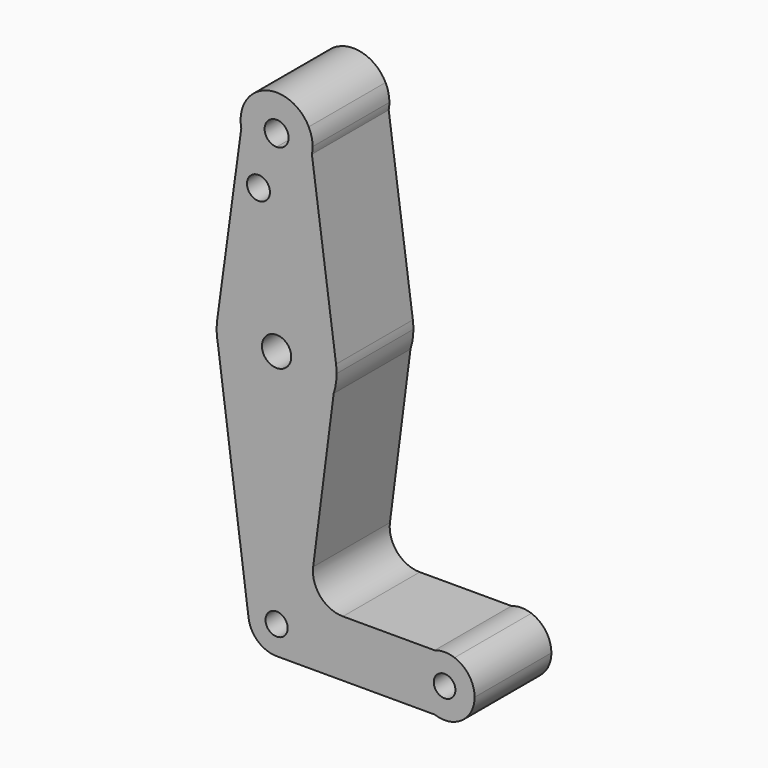
from build123d import *

# Parameters (mm, degrees)
F0_R     = 3.0424971204
F0_R_2   = 2.9292036199
F1_DEPTH = 25.4
F2_DEPTH = 25.4


with BuildPart() as f1:
    # F0 (on Front) → F1 (new body)
    with BuildSketch(Plane.XZ):
        with BuildLine():
            ThreePointArc((-9.3441255469, 112.4525848425), (-6.0468585077, 106.9405756212), (0, 104.775))
            ThreePointArc((0, 104.775), (6.0468585077, 106.9405756212), (9.3441255469, 112.4525848425))
            Line((9.3441255469, 112.4525848425), (8.5078797675, 118.5827102238))
            ThreePointArc((8.5078797675, 118.5827102238), (0, 123.825), (-8.5078797675, 118.5827102238))
            Line((-8.5078797675, 118.5827102238), (-9.3441255469, 112.4525848425))
        make_face()
        with BuildLine():
            ThreePointArc((3.175, 114.3), (2.2450640303, 112.0549359697), (0, 111.125))
            ThreePointArc((0, 111.125), (-2.2450640303, 116.5450640303), (3.175, 114.3))
        make_face(mode=Mode.SUBTRACT)
        with BuildLine():
            ThreePointArc((9.3441255469, 112.4525848425), (6.0468585077, 106.9405756212), (0, 104.775))
            Line((0, 104.775), (0, 79.375))
            ThreePointArc((0, 79.375), (10.4391619832, 75.4599131304), (15.7293191148, 65.6457271922))
            Line((15.7293191148, 65.6457271922), (9.3441255469, 112.4525848425))
        make_face()
        with BuildLine():
            Line((0, 79.375), (0, 104.775))
            ThreePointArc((0, 104.775), (-6.0468585077, 106.9405756212), (-9.3441255469, 112.4525848425))
            Line((-9.3441255469, 112.4525848425), (-15.7293191148, 65.6457271922))
            ThreePointArc((-15.7293191148, 65.6457271922), (-10.4391619832, 75.4599131304), (0, 79.375))
        make_face()
        with Locations((-4.8008062877, 100.0252)):
            Circle(F0_R, mode=Mode.SUBTRACT)
        with BuildLine():
            ThreePointArc((15.7293191148, 65.6457271922), (10.4391619832, 75.4599131304), (0, 79.375))
            Line((0, 79.375), (0, 67.372643786))
            ThreePointArc((0, 67.372643786), (2.7383726822, 66.2383726822), (3.872643786, 63.5))
            ThreePointArc((3.872643786, 63.5), (2.7383726822, 60.7616273178), (0, 59.627356214))
            Line((0, 59.627356214), (0, 47.625))
            ThreePointArc((0, 47.625), (9.3418966112, 50.664712987), (15.1062581732, 58.619775722))
            ThreePointArc((15.1062581732, 58.619775722), (15.6816369283, 61.0297999575), (15.875, 63.5))
            ThreePointArc((15.875, 63.5), (15.8385379052, 64.5753334487), (15.7293191148, 65.6457271922))
        make_face()
        with BuildLine():
            Line((0, 67.372643786), (0, 79.375))
            ThreePointArc((0, 79.375), (-10.4391619832, 75.4599131304), (-15.7293191148, 65.6457271922))
            ThreePointArc((-15.7293191148, 65.6457271922), (-15.8655379037, 62.9519744291), (-15.5437709654, 60.2740413558))
            ThreePointArc((-15.5437709654, 60.2740413558), (-10.0200681516, 51.1868420282), (0, 47.625))
            Line((0, 47.625), (0, 59.627356214))
            ThreePointArc((0, 59.627356214), (-3.872643786, 63.5), (0, 67.372643786))
        make_face()
        with BuildLine():
            ThreePointArc((-8.5078797675, 118.5827102238), (-9.4375914689, 115.5874363153), (-9.3441255469, 112.4525848425))
            Line((-9.3441255469, 112.4525848425), (-8.5078797675, 118.5827102238))
        make_face()
        with BuildLine():
            Line((8.5078797675, 118.5827102238), (9.3441255469, 112.4525848425))
            ThreePointArc((9.3441255469, 112.4525848425), (9.4796735396, 113.3718757718), (9.525, 114.3))
            ThreePointArc((9.525, 114.3), (9.2672320513, 116.5009168788), (8.5078797675, 118.5827102238))
        make_face()
        with BuildLine():
            ThreePointArc((0, 47.625), (-10.0200681516, 51.1868420282), (-15.5437709654, 60.2740413558))
            Line((-15.5437709654, 60.2740413558), (-7.420620187, -0.9840145232))
            ThreePointArc((-7.420620187, -0.9840145232), (-5.6302667211, 4.9329489345), (0, 7.4855787045))
            Line((0, 7.4855787045), (0, 47.625))
        make_face()
        with BuildLine():
            ThreePointArc((15.1062581732, 58.619775722), (9.3418966112, 50.664712987), (0, 47.625))
            Line((0, 47.625), (0, 7.4855787045))
            ThreePointArc((0, 7.4855787045), (5.2931034631, 5.2931034631), (7.4855787045, 0))
            Line((7.4855787045, 0), (36.5125, 0))
            ThreePointArc((36.5125, 0), (37.9708204922, 4.5852087364), (41.8099208897, 7.4855787045))
            Line((41.8099208897, 7.4855787045), (17.5539337581, 7.4855787045))
            ThreePointArc((17.5539337581, 7.4855787045), (11.5836409382, 10.1858945453), (9.6690137055, 16.4524968587))
            Line((9.6690137055, 16.4524968587), (15.1062581732, 58.619775722))
        make_face()
        with BuildLine():
            ThreePointArc((0, 7.4855787045), (-5.6302667211, 4.9329489345), (-7.420620187, -0.9840145232))
            ThreePointArc((-7.420620187, -0.9840145232), (-4.9329489345, -5.6302667211), (0, -7.4855787045))
            ThreePointArc((0, -7.4855787045), (5.2931034631, -5.2931034631), (7.4855787045, 0))
            ThreePointArc((7.4855787045, 0), (5.2931034631, 5.2931034631), (0, 7.4855787045))
        make_face()
        Circle(F0_R_2, mode=Mode.SUBTRACT)
        with BuildLine():
            ThreePointArc((7.4855787045, 0), (5.2931034631, -5.2931034631), (0, -7.4855787045))
            Line((0, -7.4855787045), (41.8099208897, -7.4855787045))
            ThreePointArc((41.8099208897, -7.4855787045), (37.9708204922, -4.5852087364), (36.5125, 0))
            Line((36.5125, 0), (7.4855787045, 0))
        make_face()
        with BuildLine():
            Line((47.0900791103, -7.4855787045), (41.8099208897, -7.4855787045))
            ThreePointArc((41.8099208897, -7.4855787045), (44.45, -7.9375), (47.0900791103, -7.4855787045))
        make_face()
        with BuildLine():
            ThreePointArc((36.5125, 0), (37.9708204922, -4.5852087364), (41.8099208897, -7.4855787045))
            Line((41.8099208897, -7.4855787045), (47.0900791103, -7.4855787045))
            ThreePointArc((47.0900791103, -7.4855787045), (50.9291795078, -4.5852087364), (52.3875, 0))
            ThreePointArc((52.3875, 0), (50.9291795078, 4.5852087364), (47.0900791103, 7.4855787045))
            Line((47.0900791103, 7.4855787045), (41.8099208897, 7.4855787045))
            ThreePointArc((41.8099208897, 7.4855787045), (37.9708204922, 4.5852087364), (36.5125, 0))
        make_face()
        with BuildLine():
            ThreePointArc((47.3139235661, 0), (44.45, -2.8639235661), (41.5860764339, 0))
            ThreePointArc((41.5860764339, 0), (44.45, 2.8639235661), (47.3139235661, 0))
        make_face(mode=Mode.SUBTRACT)
        with BuildLine():
            ThreePointArc((47.0900791103, 7.4855787045), (44.45, 7.9375), (41.8099208897, 7.4855787045))
            Line((41.8099208897, 7.4855787045), (47.0900791103, 7.4855787045))
        make_face()
    extrude(amount=F1_DEPTH)

    # F0 (on Front) → F2 (join)
    with BuildSketch(Plane.XZ):
        with BuildLine():
            ThreePointArc((-9.3441255469, 112.4525848425), (-6.0468585077, 106.9405756212), (0, 104.775))
            ThreePointArc((0, 104.775), (6.0468585077, 106.9405756212), (9.3441255469, 112.4525848425))
            Line((9.3441255469, 112.4525848425), (8.5078797675, 118.5827102238))
            ThreePointArc((8.5078797675, 118.5827102238), (0, 123.825), (-8.5078797675, 118.5827102238))
            Line((-8.5078797675, 118.5827102238), (-9.3441255469, 112.4525848425))
        make_face()
        with BuildLine():
            ThreePointArc((3.175, 114.3), (2.2450640303, 112.0549359697), (0, 111.125))
            ThreePointArc((0, 111.125), (-2.2450640303, 116.5450640303), (3.175, 114.3))
        make_face(mode=Mode.SUBTRACT)
        with BuildLine():
            ThreePointArc((9.3441255469, 112.4525848425), (6.0468585077, 106.9405756212), (0, 104.775))
            Line((0, 104.775), (0, 79.375))
            ThreePointArc((0, 79.375), (10.4391619832, 75.4599131304), (15.7293191148, 65.6457271922))
            Line((15.7293191148, 65.6457271922), (9.3441255469, 112.4525848425))
        make_face()
        with BuildLine():
            Line((0, 79.375), (0, 104.775))
            ThreePointArc((0, 104.775), (-6.0468585077, 106.9405756212), (-9.3441255469, 112.4525848425))
            Line((-9.3441255469, 112.4525848425), (-15.7293191148, 65.6457271922))
            ThreePointArc((-15.7293191148, 65.6457271922), (-10.4391619832, 75.4599131304), (0, 79.375))
        make_face()
        with Locations((-4.8008062877, 100.0252)):
            Circle(F0_R, mode=Mode.SUBTRACT)
        with BuildLine():
            ThreePointArc((15.7293191148, 65.6457271922), (10.4391619832, 75.4599131304), (0, 79.375))
            Line((0, 79.375), (0, 67.372643786))
            ThreePointArc((0, 67.372643786), (2.7383726822, 66.2383726822), (3.872643786, 63.5))
            ThreePointArc((3.872643786, 63.5), (2.7383726822, 60.7616273178), (0, 59.627356214))
            Line((0, 59.627356214), (0, 47.625))
            ThreePointArc((0, 47.625), (9.3418966112, 50.664712987), (15.1062581732, 58.619775722))
            ThreePointArc((15.1062581732, 58.619775722), (15.6816369283, 61.0297999575), (15.875, 63.5))
            ThreePointArc((15.875, 63.5), (15.8385379052, 64.5753334487), (15.7293191148, 65.6457271922))
        make_face()
        with BuildLine():
            Line((0, 67.372643786), (0, 79.375))
            ThreePointArc((0, 79.375), (-10.4391619832, 75.4599131304), (-15.7293191148, 65.6457271922))
            ThreePointArc((-15.7293191148, 65.6457271922), (-15.8655379037, 62.9519744291), (-15.5437709654, 60.2740413558))
            ThreePointArc((-15.5437709654, 60.2740413558), (-10.0200681516, 51.1868420282), (0, 47.625))
            Line((0, 47.625), (0, 59.627356214))
            ThreePointArc((0, 59.627356214), (-3.872643786, 63.5), (0, 67.372643786))
        make_face()
        with BuildLine():
            ThreePointArc((-8.5078797675, 118.5827102238), (-9.4375914689, 115.5874363153), (-9.3441255469, 112.4525848425))
            Line((-9.3441255469, 112.4525848425), (-8.5078797675, 118.5827102238))
        make_face()
        with BuildLine():
            Line((8.5078797675, 118.5827102238), (9.3441255469, 112.4525848425))
            ThreePointArc((9.3441255469, 112.4525848425), (9.4796735396, 113.3718757718), (9.525, 114.3))
            ThreePointArc((9.525, 114.3), (9.2672320513, 116.5009168788), (8.5078797675, 118.5827102238))
        make_face()
        with BuildLine():
            ThreePointArc((0, 47.625), (-10.0200681516, 51.1868420282), (-15.5437709654, 60.2740413558))
            Line((-15.5437709654, 60.2740413558), (-7.420620187, -0.9840145232))
            ThreePointArc((-7.420620187, -0.9840145232), (-5.6302667211, 4.9329489345), (0, 7.4855787045))
            Line((0, 7.4855787045), (0, 47.625))
        make_face()
        with BuildLine():
            ThreePointArc((15.1062581732, 58.619775722), (9.3418966112, 50.664712987), (0, 47.625))
            Line((0, 47.625), (0, 7.4855787045))
            ThreePointArc((0, 7.4855787045), (5.2931034631, 5.2931034631), (7.4855787045, 0))
            Line((7.4855787045, 0), (36.5125, 0))
            ThreePointArc((36.5125, 0), (37.9708204922, 4.5852087364), (41.8099208897, 7.4855787045))
            Line((41.8099208897, 7.4855787045), (17.5539337581, 7.4855787045))
            ThreePointArc((17.5539337581, 7.4855787045), (11.5836409382, 10.1858945453), (9.6690137055, 16.4524968587))
            Line((9.6690137055, 16.4524968587), (15.1062581732, 58.619775722))
        make_face()
        with BuildLine():
            ThreePointArc((0, 7.4855787045), (-5.6302667211, 4.9329489345), (-7.420620187, -0.9840145232))
            ThreePointArc((-7.420620187, -0.9840145232), (-4.9329489345, -5.6302667211), (0, -7.4855787045))
            ThreePointArc((0, -7.4855787045), (5.2931034631, -5.2931034631), (7.4855787045, 0))
            ThreePointArc((7.4855787045, 0), (5.2931034631, 5.2931034631), (0, 7.4855787045))
        make_face()
        Circle(F0_R_2, mode=Mode.SUBTRACT)
        with BuildLine():
            ThreePointArc((7.4855787045, 0), (5.2931034631, -5.2931034631), (0, -7.4855787045))
            Line((0, -7.4855787045), (41.8099208897, -7.4855787045))
            ThreePointArc((41.8099208897, -7.4855787045), (37.9708204922, -4.5852087364), (36.5125, 0))
            Line((36.5125, 0), (7.4855787045, 0))
        make_face()
        with BuildLine():
            Line((47.0900791103, -7.4855787045), (41.8099208897, -7.4855787045))
            ThreePointArc((41.8099208897, -7.4855787045), (44.45, -7.9375), (47.0900791103, -7.4855787045))
        make_face()
        with BuildLine():
            ThreePointArc((36.5125, 0), (37.9708204922, -4.5852087364), (41.8099208897, -7.4855787045))
            Line((41.8099208897, -7.4855787045), (47.0900791103, -7.4855787045))
            ThreePointArc((47.0900791103, -7.4855787045), (50.9291795078, -4.5852087364), (52.3875, 0))
            ThreePointArc((52.3875, 0), (50.9291795078, 4.5852087364), (47.0900791103, 7.4855787045))
            Line((47.0900791103, 7.4855787045), (41.8099208897, 7.4855787045))
            ThreePointArc((41.8099208897, 7.4855787045), (37.9708204922, 4.5852087364), (36.5125, 0))
        make_face()
        with BuildLine():
            ThreePointArc((47.3139235661, 0), (44.45, -2.8639235661), (41.5860764339, 0))
            ThreePointArc((41.5860764339, 0), (44.45, 2.8639235661), (47.3139235661, 0))
        make_face(mode=Mode.SUBTRACT)
        with BuildLine():
            ThreePointArc((47.0900791103, 7.4855787045), (44.45, 7.9375), (41.8099208897, 7.4855787045))
            Line((41.8099208897, 7.4855787045), (47.0900791103, 7.4855787045))
        make_face()
    extrude(amount=F2_DEPTH)


solid = f1.part
